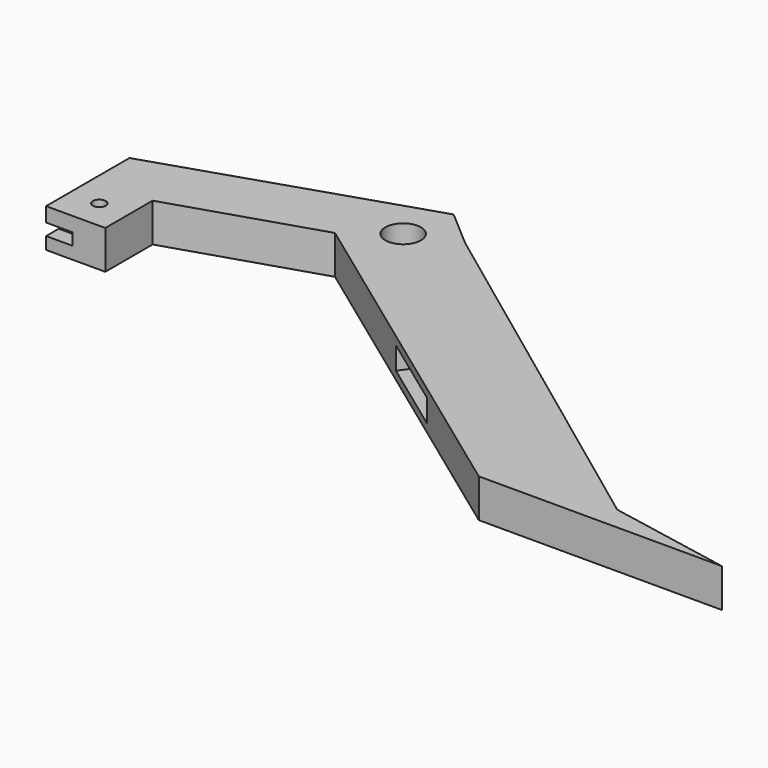
from build123d import *

# Parameters (mm, degrees)
F0_R     = 3.175
F0_R_2   = 8.7650051074
F1_DEPTH = 19.05
F2_W     = 45.4748366028
F2_H     = 11.0821020789
F3_DEPTH = 7.62
F4_W     = 7.8214257956
F4_H     = 5.8546541259
F5_DEPTH = 12.954


with BuildPart() as f1:
    # F0 (on Top) → F1 (new body)
    with BuildSketch(Plane.XY):
        Polygon((177.2020328314, 11.616397533), (-7.5826541561, 148.7761547738), (-25.9976245138, 164.651133018), (-152.9974015162, 123.3761982856), (-152.9974015162, 71.9412896602), (-123.787456631, 71.9412896602), (-123.787456631, 101.1512417973), (-52.0325784639, 124.0111939344), (118.1471256564, 0), (238.161905197, 0), align=None)
        with Locations((-138.3924290736, 86.5462621028)):
            Circle(F0_R, mode=Mode.SUBTRACT)
        with Locations((-31.0776132732, 139.8861721785)):
            Circle(F0_R_2, mode=Mode.SUBTRACT)
    extrude(amount=F1_DEPTH)

    # F2 (on face) → F3 (cut)
    with BuildSketch(Plane(origin=(40.9779427168, 56.2337475009, 0), x_dir=(0.8081842281, -0.5889297526, 0), z_dir=(-0.5889297526, -0.8081842281, 0))):
        with Locations((-3.1541539356, 9.5249998849)):
            Rectangle(F2_W, F2_H)
    extrude(amount=-F3_DEPTH, mode=Mode.SUBTRACT)

    # F4 (on face) → F5 (cut)
    with BuildSketch(Plane(origin=(-152.9974015162, 0, 0), x_dir=(0, -1, 0), z_dir=(-1, 0, 0))):
        with Locations((-75.852002558, 8.9845708571)):
            Rectangle(F4_W, F4_H)
    extrude(amount=-F5_DEPTH, mode=Mode.SUBTRACT)


solid = f1.part
